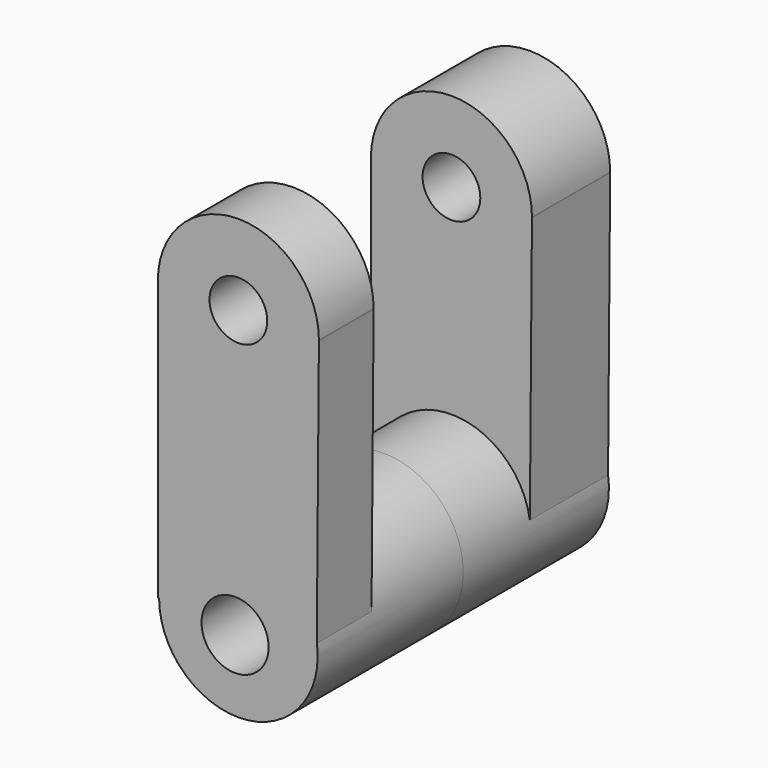
from build123d import *

# Parameters (mm, degrees)
F1_DEPTH      = 38.1
F1_DEPTH_BACK = 38.1
F3_DEPTH      = 19.1664542539
F3_DEPTH_BACK = 14.5482714754
F4_R          = 16.5901380348
F5_DEPTH      = 38.1
F5_DEPTH_BACK = 38.1
F6_R          = 6.0434661234
F6_R_2        = 7.0228239136
F7_DEPTH      = 38.101
F7_DEPTH_BACK = 38.1


with BuildPart() as f1:
    # F0 (on Front) → F1 (new body, two sides)
    with BuildSketch(Plane.XZ) as f1_sk:
        with BuildLine():
            ThreePointArc((14.5467436103, 45.9329626612), (14.5471395086, 45.9996620138), (14.5472714754, 46.0663624108))
            ThreePointArc((14.5472714754, 46.0663624108), (-2.3090913892, 62.9227252754), (-19.1654542538, 46.0663624108))
            ThreePointArc((-19.1654542538, 46.0663624108), (-2.3757917862, 29.210131513), (14.5467436103, 45.9329626612))
        make_face()
        with BuildLine():
            ThreePointArc((14.5467436103, 45.9329626612), (-2.3757917862, 29.210131513), (-19.1654542538, 46.0663624108))
            Line((-19.1654542538, 46.0663624108), (-19.1654542538, -12.3536363244))
            Line((-19.1654542538, -12.3536363244), (14.0854548663, -12.3536363244))
            Line((14.0854548663, -12.3536363244), (14.5467436103, 45.9329626612))
        make_face()
    extrude(amount=F1_DEPTH)
    extrude(f1_sk.sketch, amount=-F1_DEPTH_BACK)

    # F2 (on Right) → F3 (cut, two sides)
    with BuildSketch(Plane.YZ) as f3_sk:
        Polygon((17.6418442279, 67.0483036786), (-23.7836372107, 66.8481811881), (-23.7836372107, -12.9865873605), (17.6418442279, -12.9865873605), align=None)
    extrude(amount=-F3_DEPTH, mode=Mode.SUBTRACT)
    extrude(f3_sk.sketch, amount=F3_DEPTH_BACK, mode=Mode.SUBTRACT)

    # F4 (on Front) → F5 (join, two sides)
    with BuildSketch(Plane.XZ) as f5_sk:
        with Locations((-2.3090913892, -12.3536363244)):
            Circle(F4_R)
    extrude(amount=F5_DEPTH)
    extrude(f5_sk.sketch, amount=-F5_DEPTH_BACK)

    # F6 (on Front) → F7 (cut, two sides)
    with BuildSketch(Plane.XZ) as f7_sk:
        with Locations((-2.3090913892, 46.0663624108)):
            Circle(F6_R)
        with Locations((-3.0018182006, -13.9700006694)):
            Circle(F6_R_2)
    extrude(amount=F7_DEPTH, mode=Mode.SUBTRACT)
    extrude(f7_sk.sketch, amount=-F7_DEPTH_BACK, mode=Mode.SUBTRACT)


solid = f1.part
